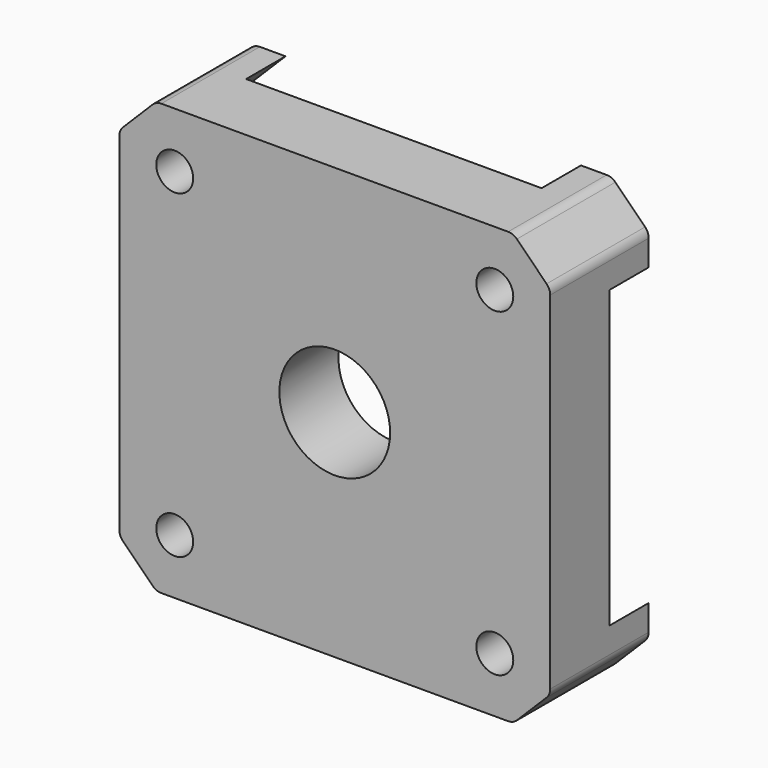
from build123d import *

# Parameters (mm, degrees)
F0_W     = 35
F0_H     = 35
F1_DEPTH = 10
F2_SIZE  = 3
F3_R     = 1
F4_R     = 1.5
F5_DEPTH = 10.001
F6_R     = 4.5
F7_DEPTH = 10.001
F9_DEPTH = 4


with BuildPart() as f1:
    # F0 (on Front) → F1 (new body)
    with BuildSketch(Plane.XZ):
        Rectangle(F0_W, F0_H)
    extrude(amount=F1_DEPTH)

    # F2
    f2_edges = [f1.edges().sort_by_distance(p)[0] for p in [
        (-17.5, -5, 17.5),
        (17.5, -5, 17.5),
        (17.5, -5, -17.5),
        (-17.5, -5, -17.5),
    ]]
    chamfer(f2_edges, length=F2_SIZE)

    # F3
    f3_edges = [f1.edges().sort_by_distance(p)[0] for p in [
        (-14.5, -5, 17.5),
        (14.5, -5, 17.5),
        (17.5, -5, 14.5),
        (17.5, -5, -14.5),
        (14.5, -5, -17.5),
        (-14.5, -5, -17.5),
        (-17.5, -5, -14.5),
        (-17.5, -5, 14.5),
    ]]
    fillet(f3_edges, radius=F3_R)

    # F4 (on face) → F5 (cut, through all)
    with BuildSketch(Plane.XZ.offset(10)):
        with Locations((-13, 13)):
            Circle(F4_R)
        with Locations((-13, -13)):
            Circle(F4_R)
        with Locations((13, -13)):
            Circle(F4_R)
        with Locations((13, 13)):
            Circle(F4_R)
    extrude(amount=-F5_DEPTH, mode=Mode.SUBTRACT)

    # F6 (on face) → F7 (cut, through all)
    with BuildSketch(Plane.XZ.offset(10)):
        Circle(F6_R)
    extrude(amount=-F7_DEPTH, mode=Mode.SUBTRACT)

    # F8 (on face) → F9 (cut)
    with BuildSketch(Plane(origin=(0, 0, 0), x_dir=(-1, 0, 0), z_dir=(0, 1, 0))):
        Polygon((12, 17.5), (-12, 17.5), (-17.5, 12), (-17.5, -12), (-12, -17.5), (12, -17.5), (17.5, -12), (17.5, 12), align=None)
    extrude(amount=-F9_DEPTH, mode=Mode.SUBTRACT)


solid = f1.part
